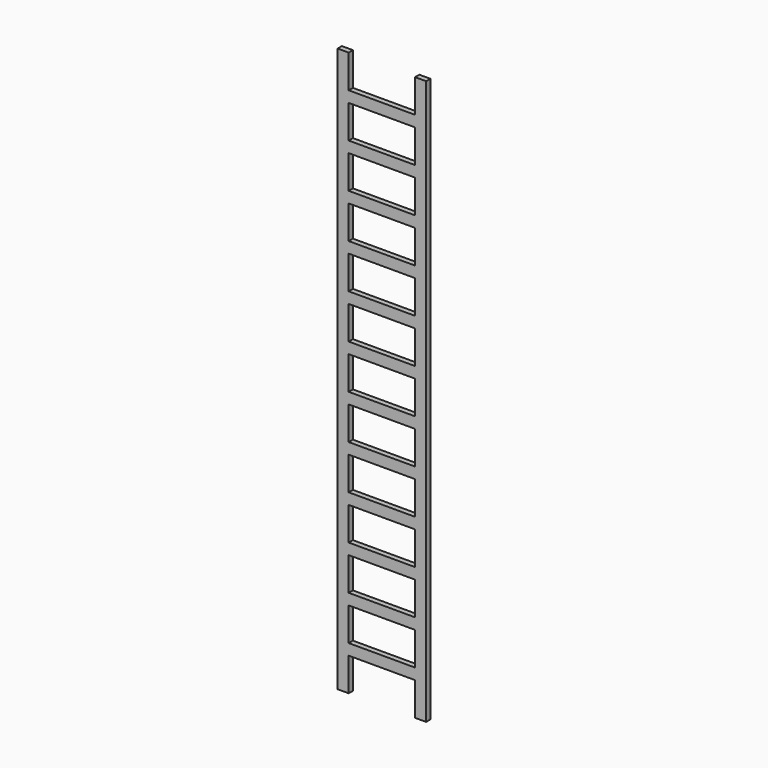
from build123d import *

# Parameters (mm, degrees)
F0_W     = 19.05
F0_H     = 9.525
F1_DEPTH = 1.524


with BuildPart() as f1:
    # F0 (on Front) → F1 (new body)
    with BuildSketch(Plane.XZ):
        Polygon((-9.525, 80.9625), (-12.7, 80.9625), (-12.7, -80.9625), (-9.525, -80.9625), (-9.525, -71.4375), (9.525, -71.4375), (9.525, -80.9625), (12.7, -80.9625), (12.7, 80.9625), (9.525, 80.9625), (9.525, 71.4375), (-9.525, 71.4375), align=None)
        with Locations((0, -63.5)):
            Rectangle(F0_W, F0_H, mode=Mode.SUBTRACT)
        with Locations((0, -50.8)):
            Rectangle(F0_W, F0_H, mode=Mode.SUBTRACT)
        with Locations((0, -38.1)):
            Rectangle(F0_W, F0_H, mode=Mode.SUBTRACT)
        with Locations((0, -25.4)):
            Rectangle(F0_W, F0_H, mode=Mode.SUBTRACT)
        with Locations((0, -12.7)):
            Rectangle(F0_W, F0_H, mode=Mode.SUBTRACT)
        Rectangle(F0_W, F0_H, mode=Mode.SUBTRACT)
        with Locations((0, 12.7)):
            Rectangle(F0_W, F0_H, mode=Mode.SUBTRACT)
        with Locations((0, 25.4)):
            Rectangle(F0_W, F0_H, mode=Mode.SUBTRACT)
        with Locations((0, 38.1)):
            Rectangle(F0_W, F0_H, mode=Mode.SUBTRACT)
        with Locations((0, 50.8)):
            Rectangle(F0_W, F0_H, mode=Mode.SUBTRACT)
        with Locations((0, 63.5)):
            Rectangle(F0_W, F0_H, mode=Mode.SUBTRACT)
    extrude(amount=F1_DEPTH)


solid = f1.part
